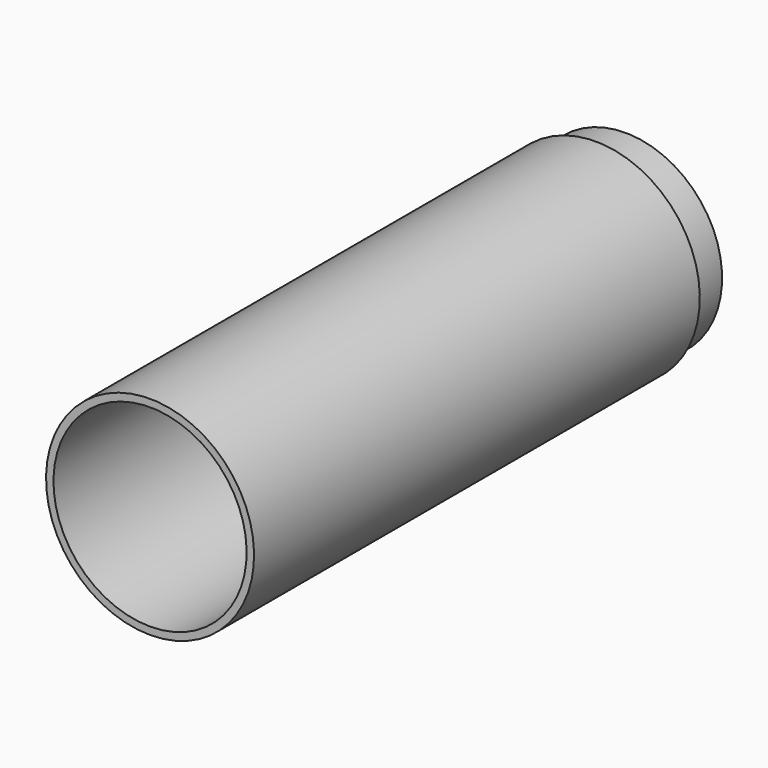
from build123d import *

# Parameters (mm, degrees)
F0_W     = 150
F0_H     = 2
F2_R     = 26
F3_DEPTH = 10
F4_R     = 24
F5_DEPTH = 13


with BuildPart() as f1:
    # F0 (on Right) → F1 (revolve)
    with BuildSketch(Plane.YZ):
        with Locations((0, -27)):
            Rectangle(F0_W, F0_H)
    revolve(axis=Axis((0, 25.8125, 0), (0, 1, 0)))

    # F2 (on face) → F3 (join, symmetric)
    with BuildSketch(Plane(origin=(0, 75, 0), x_dir=(-1, 0, 0), z_dir=(0, 1, 0))):
        Circle(F2_R)
    extrude(amount=F3_DEPTH, both=True)

    # F4 (on face) → F5 (cut)
    with BuildSketch(Plane(origin=(0, 85, 0), x_dir=(-1, 0, 0), z_dir=(0, 1, 0))):
        Circle(F4_R)
    extrude(amount=-F5_DEPTH, mode=Mode.SUBTRACT)


solid = f1.part
